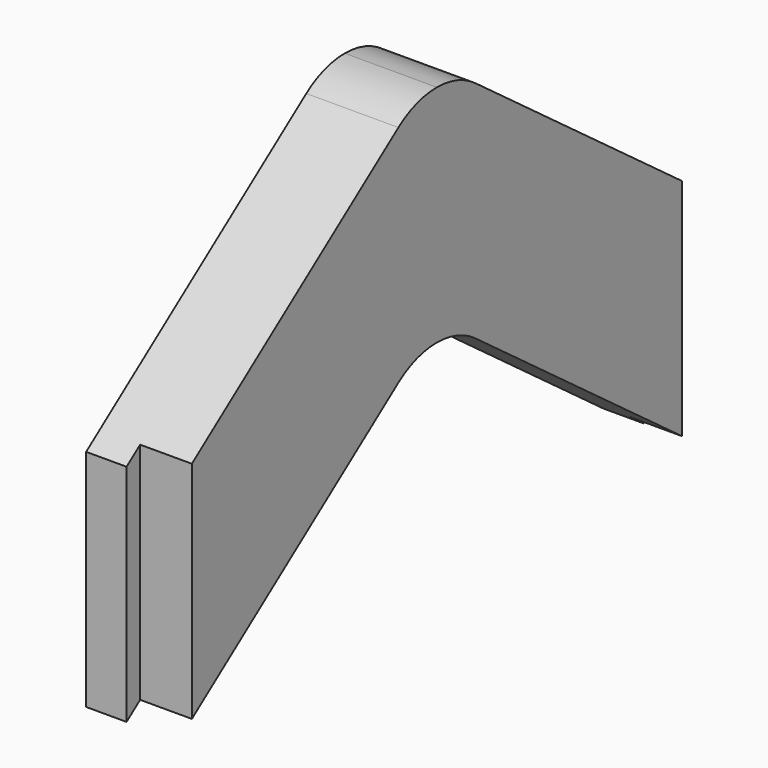
from build123d import *

# Parameters (mm, degrees)
F1_DEPTH = 5.7912
F3_DEPTH = 3.2512


with BuildPart() as f1:
    # F0 (on Right) → F1 (new body)
    with BuildSketch(Plane.YZ):
        with BuildLine():
            Line((20.32, 0.3259240077), (3.0216997567, 13.1259928519))
            ThreePointArc((3.0216997567, 13.1259928519), (1.5908721369, 13.8668715611), (0, 14.1224))
            ThreePointArc((0, 14.1224), (-1.5908721369, 13.8668715611), (-3.0216997567, 13.1259928519))
            Line((-3.0216997567, 13.1259928519), (-20.32, 0.3259240077))
            Line((-20.32, 0.3259240077), (-20.32, -13.7964759923))
            Line((-20.32, -13.7964759923), (-3.0216997567, -0.9964071481))
            ThreePointArc((-3.0216997567, -0.9964071481), (-1.5908721369, -0.2555284389), (0, 0))
            ThreePointArc((0, 0), (1.5908721369, -0.2555284389), (3.0216997567, -0.9964071481))
            Line((3.0216997567, -0.9964071481), (20.32, -13.7964759923))
            Line((20.32, -13.7964759923), (20.32, 0.3259240077))
        make_face()
    extrude(amount=F1_DEPTH)

    # F2 (on face) → F3 (cut)
    with BuildSketch(Plane.YZ.offset(5.7912)):
        Polygon((19.2532, -13.0070855174), (20.32, -13.7964759923), (20.32, 0.3259240077), (19.2532, 1.1153144826), align=None)
        Polygon((-19.2532, -13.0070855174), (-19.2532, 1.1153144826), (-20.32, 0.3259240077), (-20.32, -13.7964759923), align=None)
    extrude(amount=-F3_DEPTH, mode=Mode.SUBTRACT)


solid = f1.part
